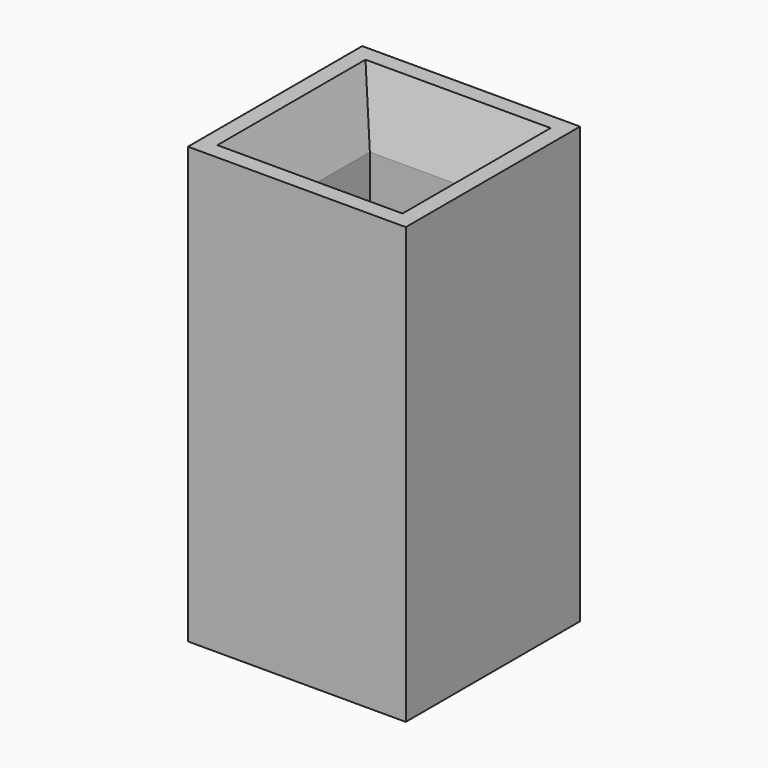
from build123d import *

# Parameters (mm, degrees)
F0_W     = 10
F0_H     = 10
F0_W_2   = 7.5
F0_H_2   = 7.5
F0_W_3   = 6.5
F0_H_3   = 6.5
F1_DEPTH = 20
F2_SIZE2 = 1
F2_SIZE  = 3
F3_SIZE2 = 1
F3_SIZE  = 3
F4_SIZE2 = 1
F4_SIZE  = 3
F5_SIZE2 = 1
F5_SIZE  = 3


with BuildPart() as f1:
    # F0 (on Top) → F1 (new body)
    with BuildSketch(Plane.XY):
        Rectangle(F0_W, F0_H)
        Rectangle(F0_W_2, F0_H_2, mode=Mode.SUBTRACT)
        Rectangle(F0_W_2, F0_H_2)
        Rectangle(F0_W_3, F0_H_3, mode=Mode.SUBTRACT)
    extrude(amount=F1_DEPTH)

    # F2
    f2_edges = [f1.edges().sort_by_distance(p)[0] for p in [
        (-3.25, 0, 20),
    ]]
    f2_side = f1.faces().sort_by_distance((-3.25, 0, 10))[0]
    chamfer(f2_edges, length=F2_SIZE, length2=F2_SIZE2, reference=f2_side)

    # F3
    f3_edges = [f1.edges().sort_by_distance(p)[0] for p in [
        (0, 3.25, 20),
    ]]
    f3_side = f1.faces().sort_by_distance((-0.040875, 3.25, 10.102662))[0]
    chamfer(f3_edges, length=F3_SIZE, length2=F3_SIZE2, reference=f3_side)

    # F4
    f4_edges = [f1.edges().sort_by_distance(p)[0] for p in [
        (3.25, 0, 20),
    ]]
    f4_side = f1.faces().sort_by_distance((3.25, 0.040875, 10.102662))[0]
    chamfer(f4_edges, length=F4_SIZE, length2=F4_SIZE2, reference=f4_side)

    # F5
    f5_edges = [f1.edges().sort_by_distance(p)[0] for p in [
        (0, -3.25, 20),
    ]]
    f5_side = f1.faces().sort_by_distance((0, -3.25, 10.203008))[0]
    chamfer(f5_edges, length=F5_SIZE, length2=F5_SIZE2, reference=f5_side)


solid = f1.part
